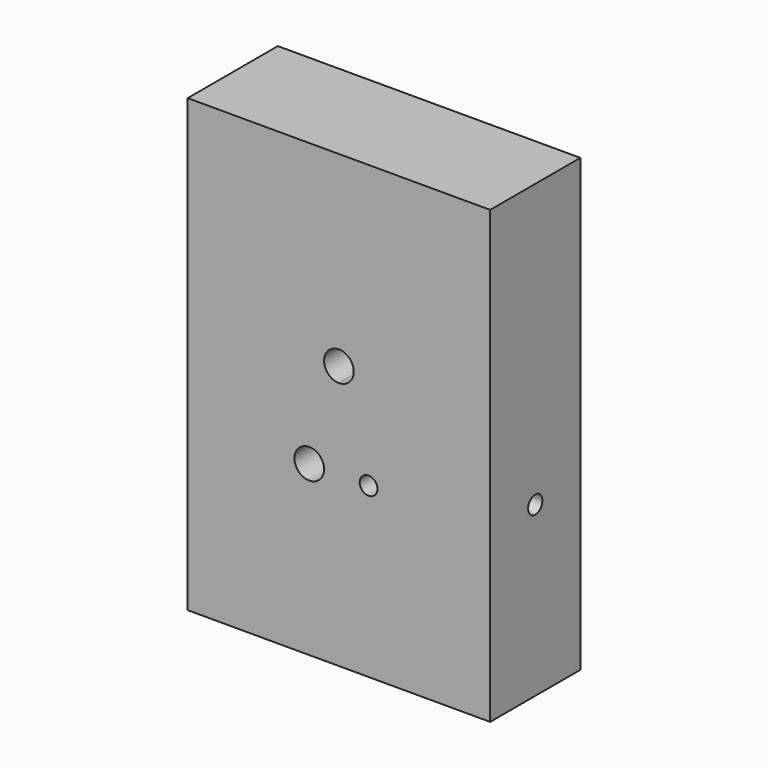
from build123d import *

# Parameters (mm, degrees)
F0_W     = 51
F0_H     = 76
F1_DEPTH = 9.5
F3_DEPTH = 19.001
F2_R     = 2.5
F4_DEPTH = 19.001
F5_DEPTH = 13
F7_DEPTH = 20.5


with BuildPart() as f1:
    # F0 (on Front) → F1 (new body, symmetric)
    with BuildSketch(Plane.XZ):
        Rectangle(F0_W, F0_H)
    extrude(amount=F1_DEPTH, both=True)

    # F2 (on face) → F3 (cut, through all)
    with BuildSketch(Plane.XZ.offset(9.5)):
        with BuildLine():
            ThreePointArc((2.5, 6.5), (-1.767767, 8.267767), (0, 4))
            ThreePointArc((0, 4), (1.767767, 4.732233), (2.5, 6.5))
        make_face()
    extrude(amount=-F3_DEPTH, mode=Mode.SUBTRACT)

    # F2 (on face) → F4 (cut, through all)
    with BuildSketch(Plane.XZ.offset(9.5)):
        with Locations((-5, -9.6)):
            Circle(F2_R)
    extrude(amount=-F4_DEPTH, mode=Mode.SUBTRACT)

    # F2 (on face) → F5 (cut)
    with BuildSketch(Plane.XZ.offset(9.5)):
        with BuildLine():
            ThreePointArc((6.5, -9.6), (5, -8.1), (3.5, -9.6))
            ThreePointArc((3.5, -9.6), (5, -11.1), (6.5, -9.6))
        make_face()
    extrude(amount=-F5_DEPTH, mode=Mode.SUBTRACT)

    # F6 (on face) → F7 (cut)
    with BuildSketch(Plane.YZ.offset(25.5)):
        with BuildLine():
            ThreePointArc((0, -8.1), (-1.06066, -10.66066), (1.5, -9.6))
            ThreePointArc((1.5, -9.6), (1.06066, -8.53934), (0, -8.1))
        make_face()
    extrude(amount=-F7_DEPTH, mode=Mode.SUBTRACT)


solid = f1.part
